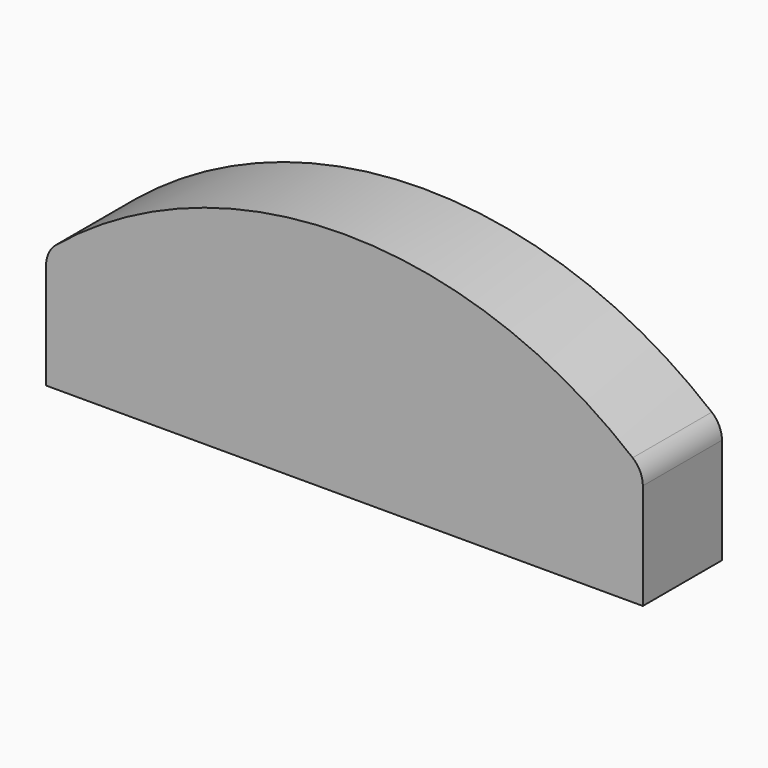
from build123d import *

# Parameters (mm, degrees)
F1_DEPTH = 25


with BuildPart() as f1:
    # F0 (on Front) → F1 (new body)
    with BuildSketch(Plane.XZ):
        with BuildLine():
            ThreePointArc((74.208628, -3.250614), (73.535467, -0.255434), (71.645455, 2.163678))
            ThreePointArc((71.645455, 2.163678), (-1.245278, 28.214586), (-74.136011, 2.163678))
            ThreePointArc((-74.136011, 2.163678), (-76.026023, -0.255434), (-76.699184, -3.250614))
            Line((-76.699184, -3.250614), (-76.699184, -30))
            Line((-76.699184, -30), (74.208628, -30))
            Line((74.208628, -30), (74.208628, -3.250614))
        make_face()
    extrude(amount=F1_DEPTH)


solid = f1.part
